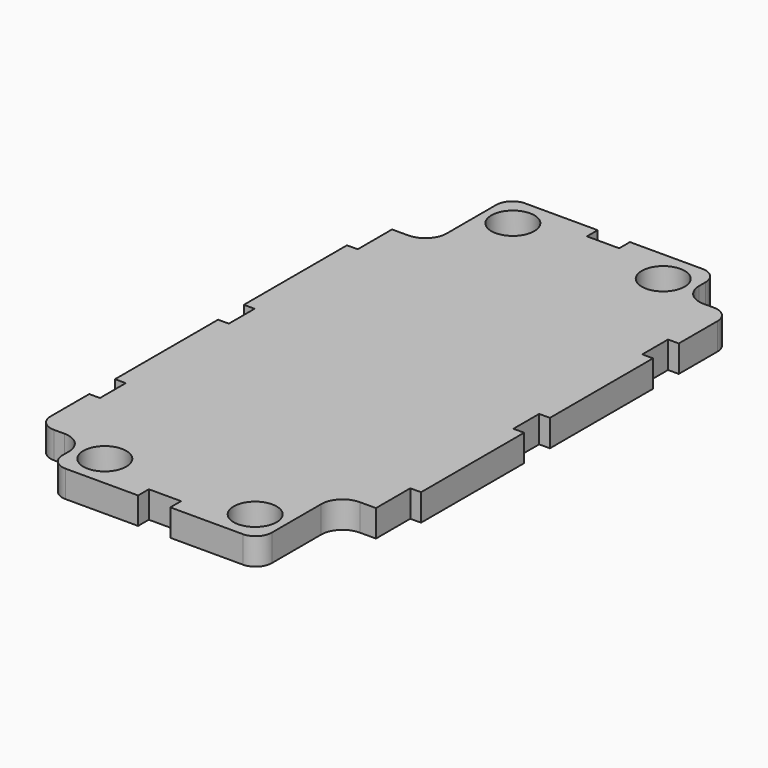
from build123d import *

# Parameters (mm, degrees)
BOX002_W               = 9
BOX002_H               = 9
BOX002_DEPTH           = 10
BOX003_W               = 9
BOX003_H               = 19
BOX003_DEPTH           = 10
BOX004_W               = 9
BOX004_H               = 9
BOX004_DEPTH           = 10
BOX005_W               = 2
BOX005_H               = 6
BOX005_DEPTH           = 10
BOX006_W               = 2
BOX006_H               = 8
BOX006_DEPTH           = 10
BOX007_W               = 2
BOX007_H               = 6
BOX007_DEPTH           = 10
BOX008_W               = 2
BOX008_H               = 6
BOX008_DEPTH           = 10
BOX009_W               = 2
BOX009_H               = 6
BOX009_DEPTH           = 10
BOX010_W               = 2
BOX010_H               = 8
BOX010_DEPTH           = 10
CYLINDER_R             = 4
CYLINDER_DEPTH         = 10
CYLINDER002_R          = 4
CYLINDER002_DEPTH      = 10
CYLINDER001_R          = 4
CYLINDER001_DEPTH      = 10
CYLINDER003_R          = 4
CYLINDER003_DEPTH      = 10
BOX011_W               = 3
BOX011_H               = 6
BOX011_DEPTH           = 10
BOX011_PLACEMENT_ANGLE = 90
BOX012_W               = 3
BOX012_H               = 6
BOX012_DEPTH           = 10
BOX012_PLACEMENT_ANGLE = 90
BOX001_W               = 9
BOX001_H               = 19
BOX001_DEPTH           = 10
BOX_W                  = 57
BOX_H                  = 107
BOX_DEPTH              = 5
FILLET_R               = 3
FILLET001_R            = 4


with BuildPart() as cube002:
    # Box002 → Box002 (new body)
    with BuildSketch(Plane.XY):
        with Locations((4.5, 4.5)):
            Rectangle(BOX002_W, BOX002_H)
    extrude(amount=BOX002_DEPTH)


with BuildPart() as cube003:
    # Box003 → Box003 (new body)
    with BuildSketch(Plane(origin=(0, 89, 0), x_dir=(1, 0, 0), z_dir=(0, 0, 1))):
        with Locations((4.5, 9.5)):
            Rectangle(BOX003_W, BOX003_H)
    extrude(amount=BOX003_DEPTH)


with BuildPart() as cube004:
    # Box004 → Box004 (new body)
    with BuildSketch(Plane(origin=(48, 99, 0), x_dir=(1, 0, 0), z_dir=(0, 0, 1))):
        with Locations((4.5, 4.5)):
            Rectangle(BOX004_W, BOX004_H)
    extrude(amount=BOX004_DEPTH)


with BuildPart() as cube005:
    # Box005 → Box005 (new body)
    with BuildSketch(Plane(origin=(0, 51, 0), x_dir=(1, 0, 0), z_dir=(0, 0, 1))):
        with Locations((1, 3)):
            Rectangle(BOX005_W, BOX005_H)
    extrude(amount=BOX005_DEPTH)


with BuildPart() as cube006:
    # Box006 → Box006 (new body)
    with BuildSketch(Plane(origin=(0, 81, 0), x_dir=(1, 0, 0), z_dir=(0, 0, 1))):
        with Locations((1, 4)):
            Rectangle(BOX006_W, BOX006_H)
    extrude(amount=BOX006_DEPTH)


with BuildPart() as cube007:
    # Box007 → Box007 (new body)
    with BuildSketch(Plane(origin=(0, 21, 0), x_dir=(1, 0, 0), z_dir=(0, 0, 1))):
        with Locations((1, 3)):
            Rectangle(BOX007_W, BOX007_H)
    extrude(amount=BOX007_DEPTH)


with BuildPart() as cube008:
    # Box008 → Box008 (new body)
    with BuildSketch(Plane(origin=(55, 51, 0), x_dir=(1, 0, 0), z_dir=(0, 0, 1))):
        with Locations((1, 3)):
            Rectangle(BOX008_W, BOX008_H)
    extrude(amount=BOX008_DEPTH)


with BuildPart() as cube009:
    # Box009 → Box009 (new body)
    with BuildSketch(Plane(origin=(55, 81, 0), x_dir=(1, 0, 0), z_dir=(0, 0, 1))):
        with Locations((1, 3)):
            Rectangle(BOX009_W, BOX009_H)
    extrude(amount=BOX009_DEPTH)


with BuildPart() as cube010:
    # Box010 → Box010 (new body)
    with BuildSketch(Plane(origin=(55, 19, 0), x_dir=(1, 0, 0), z_dir=(0, 0, 1))):
        with Locations((1, 4)):
            Rectangle(BOX010_W, BOX010_H)
    extrude(amount=BOX010_DEPTH)


with BuildPart() as cylinder:
    # Cylinder → Cylinder (new body)
    with BuildSketch(Plane(origin=(14.5, 6.5, 0), x_dir=(1, 0, 0), z_dir=(0, 0, 1))):
        Circle(CYLINDER_R)
    extrude(amount=CYLINDER_DEPTH)


with BuildPart() as cylinder002:
    # Cylinder002 → Cylinder002 (new body)
    with BuildSketch(Plane(origin=(42.5, 101.5, 0), x_dir=(1, 0, 0), z_dir=(0, 0, 1))):
        Circle(CYLINDER002_R)
    extrude(amount=CYLINDER002_DEPTH)


with BuildPart() as cylinder001:
    # Cylinder001 → Cylinder001 (new body)
    with BuildSketch(Plane(origin=(42.5, 6.5, 0), x_dir=(1, 0, 0), z_dir=(0, 0, 1))):
        Circle(CYLINDER001_R)
    extrude(amount=CYLINDER001_DEPTH)


with BuildPart() as cylinder003:
    # Cylinder003 → Cylinder003 (new body)
    with BuildSketch(Plane(origin=(14.5, 101.5, 0), x_dir=(1, 0, 0), z_dir=(0, 0, 1))):
        Circle(CYLINDER003_R)
    extrude(amount=CYLINDER003_DEPTH)


with BuildPart() as cube011:
    # Box011 → Box011 (new body)
    with BuildSketch(Plane.XY):
        with Locations((1.5, 3)):
            Rectangle(BOX011_W, BOX011_H)
    extrude(amount=BOX011_DEPTH)


with BuildPart() as cube011_1:
    # Box011 placement: moved
    add(cube011.part.moved(Location((31.5, 0, 0))).rotate(Axis((31.5, 0, 0), (0, 0, 1)), BOX011_PLACEMENT_ANGLE))


with BuildPart() as cube012:
    # Box012 → Box012 (new body)
    with BuildSketch(Plane.XY):
        with Locations((1.5, 3)):
            Rectangle(BOX012_W, BOX012_H)
    extrude(amount=BOX012_DEPTH)


with BuildPart() as cube012_1:
    # Box012 placement: moved
    add(cube012.part.moved(Location((31.5, 105, 0))).rotate(Axis((31.5, 105, 0), (0, 0, 1)), BOX012_PLACEMENT_ANGLE))


with BuildPart() as fusion:
    # Box001 → Box001 (new body)
    with BuildSketch(Plane(origin=(48, 0, 0), x_dir=(1, 0, 0), z_dir=(0, 0, 1))):
        with Locations((4.5, 9.5)):
            Rectangle(BOX001_W, BOX001_H)
    extrude(amount=BOX001_DEPTH)

    # Fusion: union Cube002, Cube003, Cube004, Cube005, Cube006, Cube007, Cube008, Cube009, Cube010, Cylinder, Cylinder002, Cylinder001, Cylinder003, Cube011, Cube012
    add(cube002.part)
    add(cube003.part)
    add(cube004.part)
    add(cube005.part)
    add(cube006.part)
    add(cube007.part)
    add(cube008.part)
    add(cube009.part)
    add(cube010.part)
    add(cylinder.part)
    add(cylinder002.part)
    add(cylinder001.part)
    add(cylinder003.part)
    add(cube011_1.part)
    add(cube012_1.part)


with BuildPart() as fillet001:
    # Box → Box (new body)
    with BuildSketch(Plane(origin=(0, 0.5, 0), x_dir=(1, 0, 0), z_dir=(0, 0, 1))):
        with Locations((28.5, 53.5)):
            Rectangle(BOX_W, BOX_H)
    extrude(amount=BOX_DEPTH)

    # Cut: cut Fusion
    add(fusion.part, mode=Mode.SUBTRACT)

    # Fillet
    fillet_edges = [fillet001.edges().sort_by_distance(p)[0] for p in [
        (9, 107.5, 2.5),
        (48, 107.5, 2.5),
        (57, 99, 2.5),
        (48, 0.5, 2.5),
        (9, 0.5, 2.5),
        (0, 9, 2.5),
    ]]
    fillet(fillet_edges, radius=FILLET_R)

    # Fillet001
    fillet001_edges = [fillet001.edges().sort_by_distance(p)[0] for p in [
        (9, 89, 2.5),
        (48, 99, 2.5),
        (9, 9, 2.5),
        (48, 19, 2.5),
    ]]
    fillet(fillet001_edges, radius=FILLET001_R)


solid = fillet001.part
